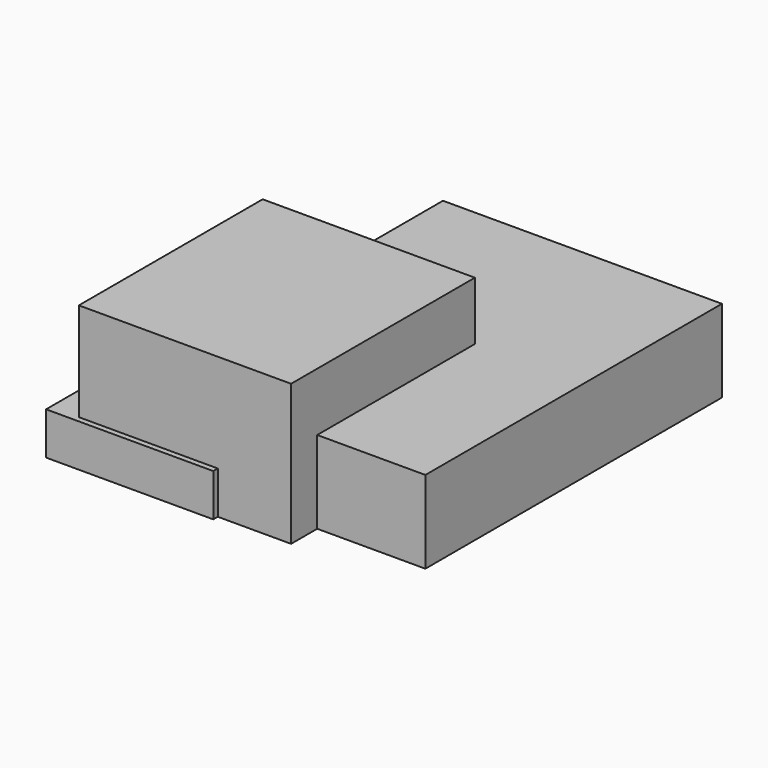
from build123d import *

# Parameters (mm, degrees)
F0_W     = 101.854
F0_H     = 25.908
F1_DEPTH = 73.406
F2_W     = 129.286
F2_H     = 85.852
F3_DEPTH = 69.977
F4_W     = 169.926
F4_H     = 225.806
F5_DEPTH = 50.292


with BuildPart() as f1:
    # F0 (on Front) → F1 (new body, symmetric)
    with BuildSketch(Plane.XZ):
        with Locations((8.466536, 12.954)):
            Rectangle(F0_W, F0_H)
    extrude(amount=F1_DEPTH, both=True)


with BuildPart() as f3:
    # F2 (on Front) → F3 (new body, symmetric)
    with BuildSketch(Plane.XZ):
        with Locations((39.398466, 42.926)):
            Rectangle(F2_W, F2_H)
    extrude(amount=F3_DEPTH, both=True)


with BuildPart() as f5:
    # F4 (on Top) → F5 (new body)
    with BuildSketch(Plane.XY):
        with Locations((84.963, 62.827774)):
            Rectangle(F4_W, F4_H)
    extrude(amount=F5_DEPTH)


solid = Compound([f1.part, f3.part, f5.part])
